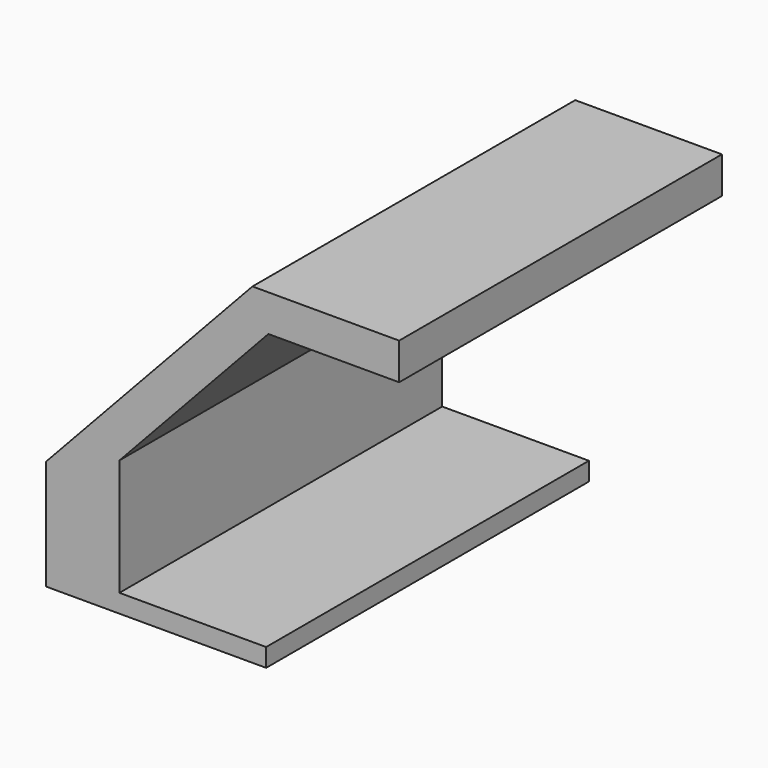
from build123d import *

# Parameters (mm, degrees)
F1_DEPTH = 44
F2_R     = 2
F3_DEPTH = 25


with BuildPart() as f1:
    # F0 (on Front) → F1 (new body)
    with BuildSketch(Plane.XZ):
        Polygon((0, 2), (0, 0), (36, 0), (36, 2), (20, 2), (20, 14.713833), (36.245195, 32.134672), (50.505946, 32.134672), (50.505946, 36.134672), (34.505946, 36.134672), (12, 12), (12, 2), align=None)
    extrude(amount=-F1_DEPTH)

    # F2 (on Top) → F3 (cut)
    with BuildSketch(Plane.XY):
        with Locations((4, 40)):
            Circle(F2_R)
        with BuildLine():
            Line((12, 0), (12, 36))
            Line((12, 36), (4, 36))
            ThreePointArc((4, 36), (1.171573, 37.171573), (0, 40))
            Line((0, 40), (0, 0))
            Line((0, 0), (12, 0))
        make_face()
    extrude(amount=F3_DEPTH, mode=Mode.SUBTRACT)


solid = f1.part
